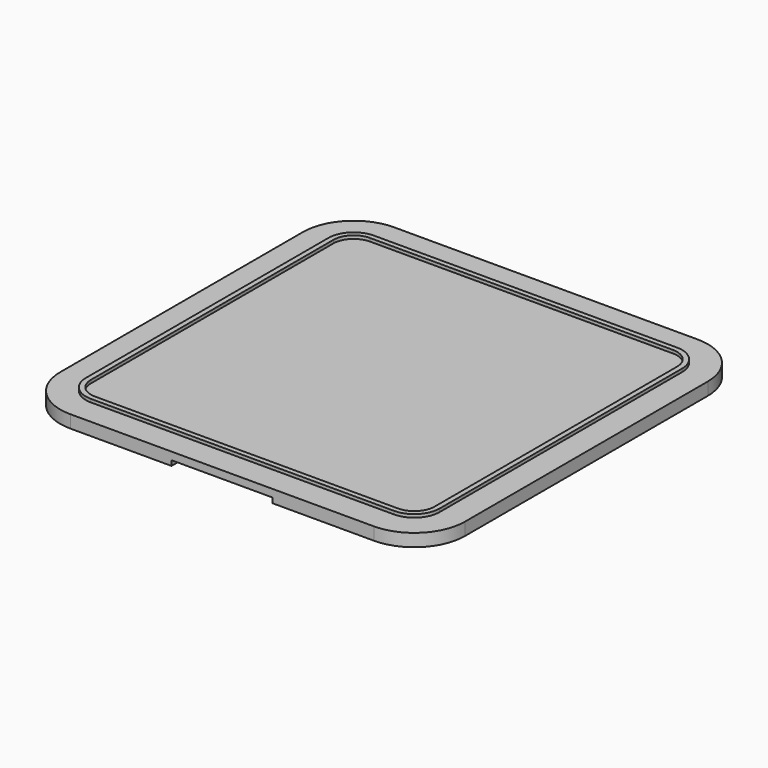
from build123d import *

# Parameters (mm, degrees)
F1_DEPTH = 3.175
F3_DEPTH = 1.5875
F4_W     = 25.4
F4_H     = 1.27
F5_DEPTH = 25.4
F7_DEPTH = 0.79375


with BuildPart() as f1:
    # F0 (on Top) → F1 (new body)
    with BuildSketch(Plane.XY):
        with BuildLine():
            ThreePointArc((50.8, 38.1), (47.080256, 47.080256), (38.1, 50.8))
            Line((38.1, 50.8), (-38.1, 50.8))
            ThreePointArc((-38.1, 50.8), (-47.080256, 47.080256), (-50.8, 38.1))
            Line((-50.8, 38.1), (-50.8, -38.1))
            ThreePointArc((-50.8, -38.1), (-47.080256, -47.080256), (-38.1, -50.8))
            Line((-38.1, -50.8), (38.1, -50.8))
            ThreePointArc((38.1, -50.8), (47.080256, -47.080256), (50.8, -38.1))
            Line((50.8, -38.1), (50.8, 38.1))
        make_face()
    extrude(amount=F1_DEPTH)

    # F2 (on face) → F3 (cut)
    with BuildSketch(Plane(origin=(0, 0, 0), x_dir=(1, 0, 0), z_dir=(0, 0, -1))):
        with BuildLine():
            ThreePointArc((44.45, 38.1), (42.590128, 42.590128), (38.1, 44.45))
            Line((38.1, 44.45), (-38.1, 44.45))
            ThreePointArc((-38.1, 44.45), (-42.590128, 42.590128), (-44.45, 38.1))
            Line((-44.45, 38.1), (-44.45, -38.1))
            ThreePointArc((-44.45, -38.1), (-42.590128, -42.590128), (-38.1, -44.45))
            Line((-38.1, -44.45), (38.1, -44.45))
            ThreePointArc((38.1, -44.45), (42.590128, -42.590128), (44.45, -38.1))
            Line((44.45, -38.1), (44.45, 38.1))
        make_face()
    extrude(amount=-F3_DEPTH, mode=Mode.SUBTRACT)

    # F4 (on face) → F5 (cut)
    with BuildSketch(Plane.XZ.offset(50.8)):
        with Locations((0, 0.635)):
            Rectangle(F4_W, F4_H)
        with Locations((0, -0.635)):
            Rectangle(F4_W, F4_H)
    extrude(amount=-F5_DEPTH, mode=Mode.SUBTRACT)

    # F6 (on face) → F7 (join)
    with BuildSketch(Plane.XY.offset(3.175)):
        with BuildLine():
            Line((-38.0365, -44.3865), (38.0365, -44.3865))
            ThreePointArc((38.0365, -44.3865), (42.526628, -42.526628), (44.3865, -38.0365))
            Line((44.3865, -38.0365), (44.3865, 38.0365))
            ThreePointArc((44.3865, 38.0365), (42.526628, 42.526628), (38.0365, 44.3865))
            Line((38.0365, 44.3865), (-38.0365, 44.3865))
            ThreePointArc((-38.0365, 44.3865), (-42.526628, 42.526628), (-44.3865, 38.0365))
            Line((-44.3865, 38.0365), (-44.3865, -38.0365))
            ThreePointArc((-44.3865, -38.0365), (-42.526628, -42.526628), (-38.0365, -44.3865))
        make_face()
        with BuildLine():
            ThreePointArc((38.0365, 43.116499), (41.628602, 41.628602), (43.116499, 38.0365))
            Line((43.116499, 38.0365), (43.116499, -38.0365))
            ThreePointArc((43.116499, -38.0365), (41.628602, -41.628602), (38.0365, -43.116499))
            Line((38.0365, -43.116499), (-38.0365, -43.116499))
            ThreePointArc((-38.0365, -43.116499), (-41.628602, -41.628602), (-43.116499, -38.0365))
            Line((-43.116499, -38.0365), (-43.116499, 38.0365))
            ThreePointArc((-43.116499, 38.0365), (-41.628602, 41.628602), (-38.0365, 43.116499))
            Line((-38.0365, 43.116499), (38.0365, 43.116499))
        make_face(mode=Mode.SUBTRACT)
    extrude(amount=F7_DEPTH)


solid = f1.part
